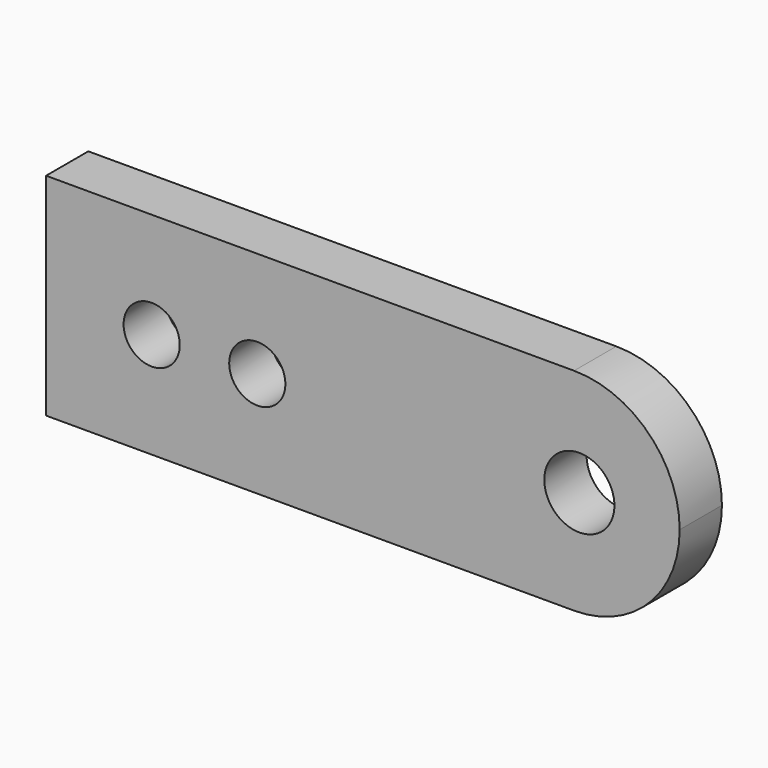
from build123d import *

# Parameters (mm, degrees)
F1_DEPTH = 6.35
F3_D     = 8.4328
F4_D     = 6.7564


with BuildPart() as f1:
    # F0 (on Front) → F1 (new body)
    with BuildSketch(Plane.XZ):
        with BuildLine():
            Line((-38.1, -12.7), (25.4, -12.7))
            ThreePointArc((25.4, -12.7), (34.380256, -8.980256), (38.1, 0))
            ThreePointArc((38.1, 0), (34.380256, 8.980256), (25.4, 12.7))
            Line((25.4, 12.7), (-38.1, 12.7))
            Line((-38.1, 12.7), (-38.1, -12.7))
        make_face()
    extrude(amount=F1_DEPTH)

    # F3 (through all)
    with Locations(Plane.XZ.offset(6.35)):
        with Locations((26.035, 0)):
            Hole(F3_D / 2)

    # F4 (through all)
    with Locations(Plane.XZ.offset(6.35)):
        with Locations((-25.4, 0), (-12.7, 0)):
            Hole(F4_D / 2)


solid = f1.part
